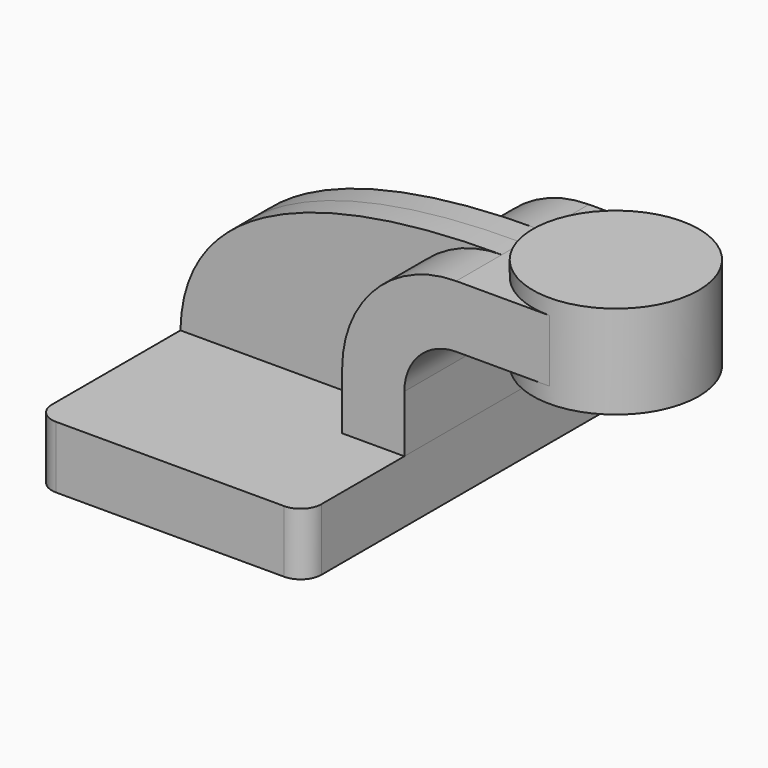
from build123d import *

# Parameters (mm, degrees)
F1_DEPTH = 63.5
F2_DEPTH = 7.9375
F0_W     = 25.4
F0_H     = 19.05
F3_DEPTH = 25.4
F5_R     = 6.35


with BuildPart() as f1:
    # F0 (on Front) → F1 (new body, symmetric)
    with BuildSketch(Plane.XZ):
        Polygon((-41.275, -9.525), (41.275, -9.525), (41.275, 9.525), (22.225, 9.525), (-41.275, 9.525), align=None)
    extrude(amount=F1_DEPTH, both=True)

    # F5
    f5_edges = [f1.edges().sort_by_distance(p)[0] for p in [
        (41.275, -63.5, 0),
        (-41.275, -63.5, 0),
        (41.275, 63.5, 0),
        (-41.275, 63.5, 0),
    ]]
    fillet(f5_edges, radius=F5_R)


with BuildPart() as f2:
    # F0 (on Front) → F2 (new body, symmetric)
    with BuildSketch(Plane.XZ):
        with BuildLine():
            add(Edge.make_bspline(
                [(-41.275, 9.525), (-40.5419133604, 49.1128563881), (6.5302411094, 62.1733367443), (57.15, 61.9252)],
                knots=[0, 0, 0, 0, 111.5045361635, 111.5045361635, 111.5045361635, 111.5045361635], degree=3))
            Line((-41.275, 9.525), (22.225, 9.525))
            Line((22.225, 9.525), (22.225, 27.0002))
            ThreePointArc((22.225, 27.0002), (32.4542956671, 51.6959043329), (57.15, 61.9252))
        make_face()
    extrude(amount=F2_DEPTH, both=True)


with BuildPart() as f3:
    # F0 (on Front) → F3 (new body, symmetric)
    with BuildSketch(Plane.XZ):
        with BuildLine():
            Line((22.225, 9.525), (41.275, 9.525))
            Line((41.275, 9.525), (41.275, 27.0002))
            ThreePointArc((41.275, 27.0002), (45.9246798487, 38.2255201513), (57.15, 42.8752))
            Line((57.15, 42.8752), (60.325, 42.8752))
            Line((60.325, 42.8752), (60.325, 61.9252))
            Line((60.325, 61.9252), (57.15, 61.9252))
            ThreePointArc((57.15, 61.9252), (32.4542956671, 51.6959043329), (22.225, 27.0002))
            Line((22.225, 27.0002), (22.225, 9.525))
        make_face()
        with Locations((73.025, 52.4002)):
            Rectangle(F0_W, F0_H)
    extrude(amount=F3_DEPTH, both=True)

    # F0 (on Front) → F4 (revolve)
    with BuildSketch(Plane.XZ):
        Polygon((85.725, 66.675), (85.725, 61.9252), (85.725, 42.8752), (85.725, 38.1), (111.125, 38.1), (111.125, 66.675), align=None)
    revolve(axis=Axis((85.725, 0, 52.3875), (0, 0, 1)))


solid = Compound([f1.part, f2.part, f3.part])
